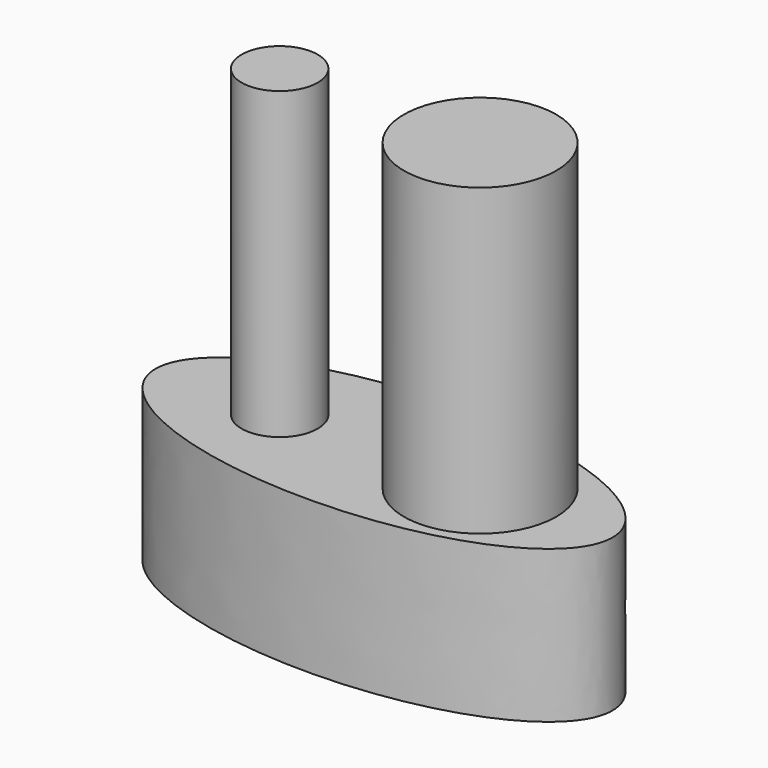
from build123d import *

# Parameters (mm, degrees)
F1_R     = 5
F1_R_2   = 2.5
F2_DEPTH = 30
F3_DEPTH = 10


with BuildPart() as f2:
    # F1 (on face) → F2 (new body)
    with BuildSketch(Plane.XY):
        with Locations((6.307533, 0)):
            Circle(F1_R)
        with Locations((-6.848984, 0)):
            Circle(F1_R_2)
    extrude(amount=F2_DEPTH)


with BuildPart() as f3:
    # F0 (on Top) → F3 (new body)
    with BuildSketch(Plane.XY):
        with BuildLine():
            add(Edge.make_bspline(
                [(15, 0), (15, 11.134633), (-7.5, 5.567316), (-30, 0), (-7.5, -5.567316), (15, -11.134633), (15, 0)],
                knots=[0, 0, 0, 2.094395, 2.094395, 4.18879, 4.18879, 6.283185, 6.283185, 6.283185], degree=2, weights=[1, 0.5, 1, 0.5, 1, 0.5, 1]))
        make_face()
    extrude(amount=F3_DEPTH)


solid = Compound([f2.part, f3.part])
